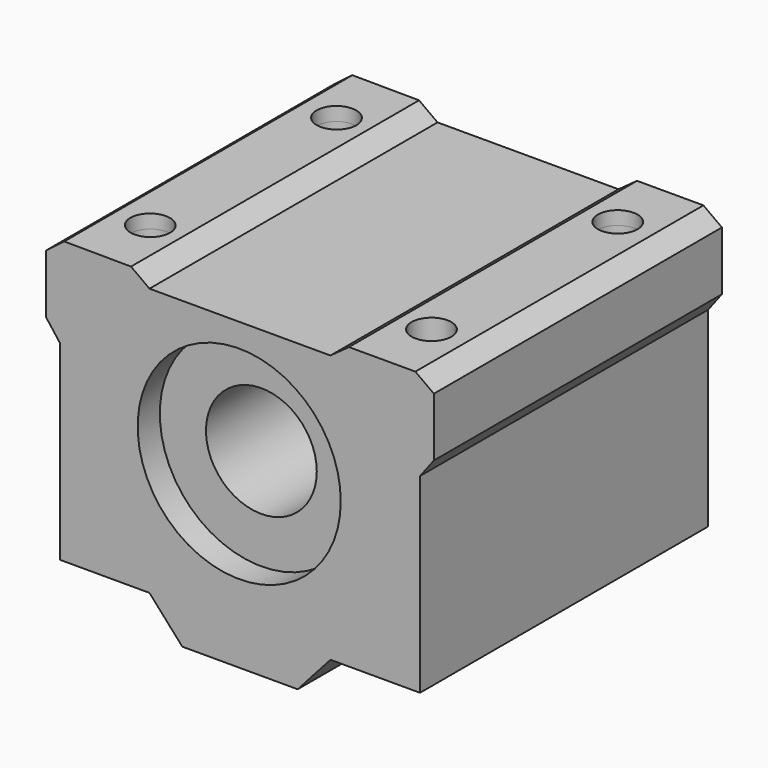
from build123d import *

# Parameters (mm, degrees)
F0_R     = 6.000001
F1_DEPTH = 38.999922
F2_R     = 2.149996
F3_DEPTH = 39.751
F4_R     = 11.000003
F4_R_2   = 6.000001
F5_DEPTH = 2.999994
F6_R     = 10.9982
F6_R_2   = 6.000001
F7_DEPTH = 2.999994


with BuildPart() as f1:
    # F0 (on Front) → F1 (new body)
    with BuildSketch(Plane.XZ):
        Polygon((-23.076807, 21.293776), (-25.046914, 19.794005), (-25.046914, 13.42603), (-23.546917, 11.456095), (-23.546917, -9.2142), (-13.846911, -9.2142), (-10.296957, -13.185778), (2.203044, -13.185778), (5.752999, -9.2142), (15.453005, -9.2142), (15.453005, 11.456095), (16.953002, 13.42603), (16.953002, 19.794005), (14.949928, 21.249454), (7.756072, 21.249454), (5.752999, 19.794005), (-13.846911, 19.794005), (-15.849985, 21.249454), align=None)
        with Locations((-4.128998, 6.249459)):
            Circle(F0_R, mode=Mode.SUBTRACT)
    extrude(amount=F1_DEPTH)

    # F2 (on face) → F3 (cut, symmetric)
    with BuildSketch(Plane.XY.offset(19.794005)):
        with Locations((-19.276814, -6.892563)):
            Circle(F2_R)
        with Locations((-19.276814, -32.107359)):
            Circle(F2_R)
        with Locations((11.182902, -6.892563)):
            Circle(F2_R)
        with Locations((11.182902, -32.107359)):
            Circle(F2_R)
    extrude(amount=F3_DEPTH, both=True, mode=Mode.SUBTRACT)

    # F4 (on face) → F5 (cut)
    with BuildSketch(Plane(origin=(0, 0, 0), x_dir=(-1, 0, 0), z_dir=(0, 1, 0))):
        with Locations((4.128998, 6.249459)):
            Circle(F4_R)
        with Locations((4.128998, 6.249459)):
            Circle(F4_R_2, mode=Mode.SUBTRACT)
    extrude(amount=-F5_DEPTH, mode=Mode.SUBTRACT)

    # F6 (on face) → F7 (cut)
    with BuildSketch(Plane.XZ.offset(38.999922)):
        with Locations((-4.128998, 6.249459)):
            Circle(F6_R)
        with Locations((-4.128998, 6.249459)):
            Circle(F6_R_2, mode=Mode.SUBTRACT)
    extrude(amount=-F7_DEPTH, mode=Mode.SUBTRACT)


solid = f1.part
